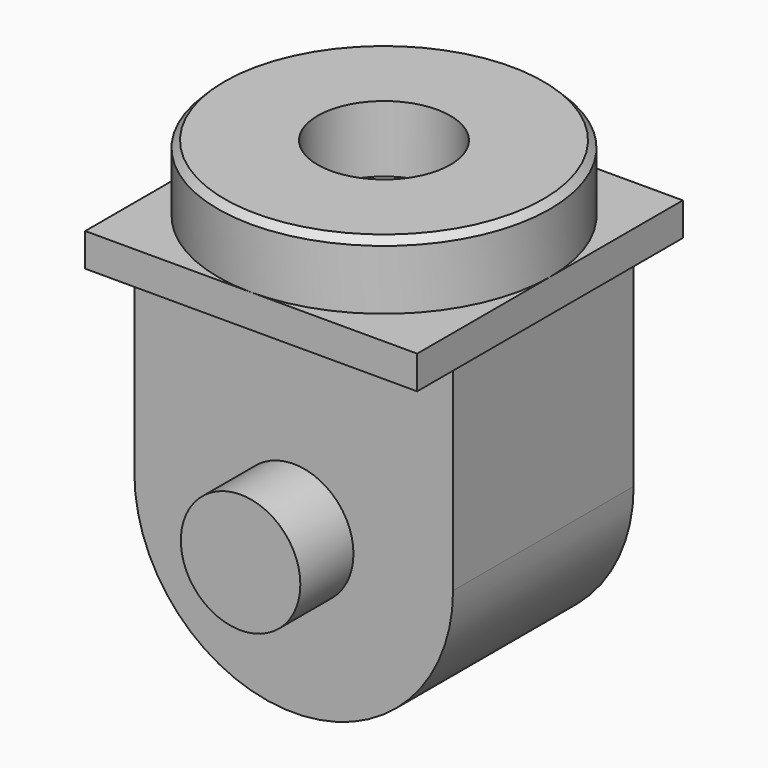
from build123d import *

# Parameters (mm, degrees)
PAD_DEPTH       = 34
SKETCH001_R     = 18
PAD001_DEPTH    = 20
SKETCH002_W     = 100
SKETCH002_H     = 100
PAD002_DEPTH    = 20
SKETCH003_R     = 50
PAD003_DEPTH    = 20
CHAMFER_SIZE    = 2
SKETCH004_R     = 20
POCKET_DEPTH    = 20
SKETCH005_W     = 96
SKETCH005_H     = 10
POCKET001_DEPTH = 16
SKETCH006_W     = 10
SKETCH006_H     = 100
POCKET002_DEPTH = 2


with BuildPart() as part:
    # Sketch → Pad (new body, symmetric)
    with BuildSketch(Plane.XZ):
        with BuildLine():
            ThreePointArc((-48, 0), (0, -48), (48, 0))
            Line((48, 50), (48, 0))
            Line((-48, 50), (48, 50))
            Line((-48, 0), (-48, 50))
        make_face()
    extrude(amount=PAD_DEPTH, both=True)

    # Sketch001 (on Face6 of Pad) → Pad001 (join)
    with BuildSketch(Plane.XZ.offset(34)):
        Circle(SKETCH001_R)
    pad001 = extrude(amount=PAD001_DEPTH)

    # Mirrored: Pad001 across XZ
    add(pad001.mirror(Plane.XZ))

    # Sketch002 (on Face6 of Mirrored) → Pad002 (join)
    with BuildSketch(Plane(origin=(0, 0, 50), x_dir=(-1, 0, 0), z_dir=(0, 0, 1))):
        Rectangle(SKETCH002_W, SKETCH002_H)
    extrude(amount=PAD002_DEPTH)

    # Sketch003 (on Face5 of Pad002) → Pad003 (join)
    with BuildSketch(Plane(origin=(0, 0, 70), x_dir=(-1, 0, 0), z_dir=(0, 0, 1))):
        Circle(SKETCH003_R)
    extrude(amount=PAD003_DEPTH)

    # Chamfer
    chamfer_edges = [part.edges().sort_by_distance(p)[0] for p in [
        (50, 0, 90),
    ]]
    chamfer(chamfer_edges, length=CHAMFER_SIZE)

    # Sketch004 (on Face7 of Chamfer) → Pocket (cut)
    with BuildSketch(Plane(origin=(0, 0, 90), x_dir=(-1, 0, 0), z_dir=(0, 0, 1))):
        Circle(SKETCH004_R)
    extrude(amount=-POCKET_DEPTH, mode=Mode.SUBTRACT)

    # Sketch005 (on Face11 of Pocket) → Pocket001 (cut)
    with BuildSketch(Plane.XZ.offset(50)):
        with Locations((0, 55)):
            Rectangle(SKETCH005_W, SKETCH005_H)
    pocket001 = extrude(amount=-POCKET001_DEPTH, mode=Mode.SUBTRACT)

    # Mirrored001: Pocket001 across XZ
    add(pocket001.mirror(Plane.XZ), mode=Mode.SUBTRACT)

    # Sketch006 (on Face10 of Mirrored001) → Pocket002 (cut)
    with BuildSketch(Plane(origin=(50, 0, 0), x_dir=(0, 0, 1), z_dir=(1, 0, 0))):
        with Locations((55, 0)):
            Rectangle(SKETCH006_W, SKETCH006_H)
    pocket002 = extrude(amount=-POCKET002_DEPTH, mode=Mode.SUBTRACT)

    # Mirrored002: Pocket002 across YZ
    add(pocket002.mirror(Plane.YZ), mode=Mode.SUBTRACT)


solid = part.part
